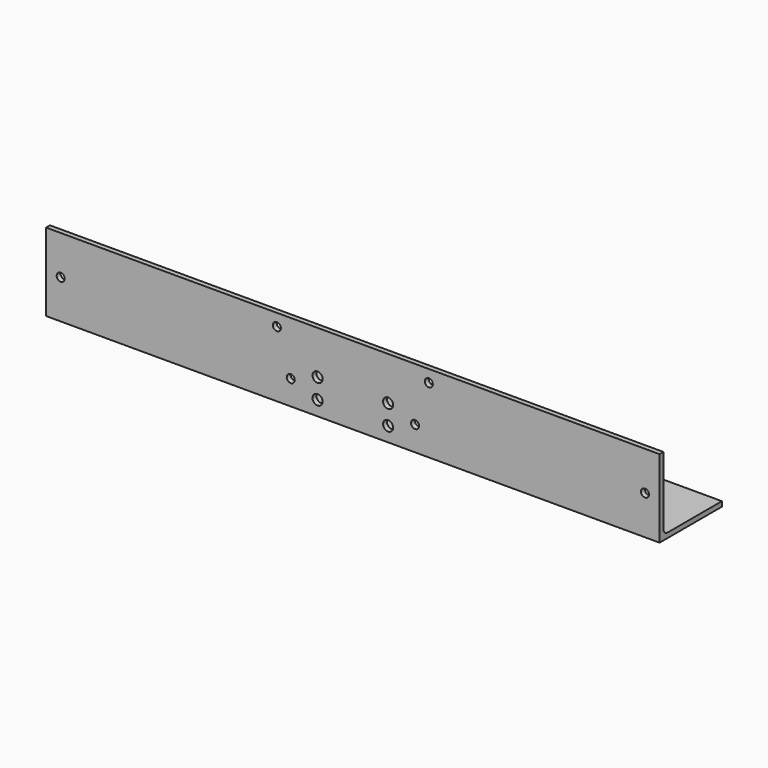
from build123d import *

# Parameters (mm, degrees)
F1_DEPTH = 400.05
F2_R     = 2.6162
F2_R_2   = 3.302
F3_DEPTH = 3.176
F4_R     = 2.6162
F5_DEPTH = 50.801


with BuildPart() as f1:
    # F0 (on Right) → F1 (new body)
    with BuildSketch(Plane.YZ):
        with BuildLine():
            Line((0, -44.45), (0, 0))
            Line((0, 0), (-3.175, 0))
            Line((-3.175, 0), (-3.175, -50.8))
            Line((-3.175, -50.8), (47.625, -50.8))
            Line((47.625, -50.8), (47.625, -47.625))
            Line((47.625, -47.625), (3.175, -47.625))
            ThreePointArc((3.175, -47.625), (0.929936, -46.695064), (0, -44.45))
        make_face()
    extrude(amount=-F1_DEPTH)

    # F2 (on face) → F3 (cut, through all)
    with BuildSketch(Plane(origin=(0, 0, 0), x_dir=(-1, 0, 0), z_dir=(0, 1, 0))):
        with Locations((9.525, -25.4)):
            Circle(F2_R)
        with Locations((390.525, -25.4)):
            Circle(F2_R)
        with Locations((177.0253, -41.305675)):
            Circle(F2_R_2)
        with Locations((223.0247, -41.305675)):
            Circle(F2_R_2)
        with Locations((177.0253, -28.300875)):
            Circle(F2_R_2)
        with Locations((223.0247, -28.300875)):
            Circle(F2_R_2)
        with Locations((159.439057, -34.803275)):
            Circle(F2_R)
        with Locations((240.5126, -34.803275)):
            Circle(F2_R)
        with Locations((249.5804, -7.9375)):
            Circle(F2_R)
        with Locations((150.4696, -7.9375)):
            Circle(F2_R)
    extrude(amount=-F3_DEPTH, mode=Mode.SUBTRACT)

    # F4 (on face) → F5 (cut, through all)
    with BuildSketch(Plane(origin=(0, 0, -50.8), x_dir=(1, 0, 0), z_dir=(0, 0, -1))):
        with Locations((-136.525, -9.525)):
            Circle(F4_R)
        with Locations((-136.525, -34.925)):
            Circle(F4_R)
        with Locations((-263.525, -9.525)):
            Circle(F4_R)
        with Locations((-263.525, -34.925)):
            Circle(F4_R)
    extrude(amount=-F5_DEPTH, mode=Mode.SUBTRACT)


solid = f1.part
